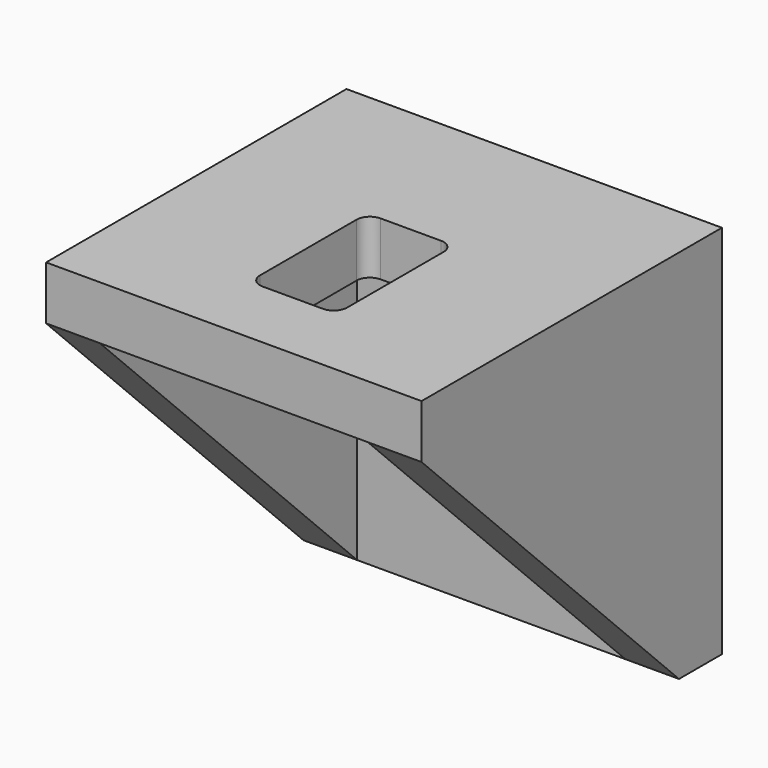
from build123d import *

# Parameters (mm, degrees)
F1_DEPTH = 28
F2_DEPTH = 4
F4_DEPTH = 4
F6_DEPTH = 4
F7_DEPTH = 4
F9_DEPTH = 4


with BuildPart() as f1:
    # F0 (on Front) → F1 (new body)
    with BuildSketch(Plane.XZ):
        Polygon((10, 24), (10, 0), (14, 0), (14, 28), (-14, 28), (-14, 0), (-10, 0), (-10, 24), align=None)
    extrude(amount=F1_DEPTH)

    # F0 (on Front) → F2 (join)
    with BuildSketch(Plane.XZ):
        Polygon((-10, 0), (0, 0), (10, 0), (10, 24), (-10, 24), align=None)
        with BuildLine():
            Line((2.25, 5.5), (0, 5.5))
            Line((0, 5.5), (-2.25, 5.5))
            ThreePointArc((-2.25, 5.5), (-2.957107, 5.792893), (-3.25, 6.5))
            Line((-3.25, 6.5), (-3.25, 15.5))
            ThreePointArc((-3.25, 15.5), (-2.957107, 16.207107), (-2.25, 16.5))
            Line((-2.25, 16.5), (0, 16.5))
            Line((0, 16.5), (2.25, 16.5))
            ThreePointArc((2.25, 16.5), (2.957107, 16.207107), (3.25, 15.5))
            Line((3.25, 15.5), (3.25, 6.5))
            ThreePointArc((3.25, 6.5), (2.957107, 5.792893), (2.25, 5.5))
        make_face(mode=Mode.SUBTRACT)
    extrude(amount=F2_DEPTH)

    # F3 (on face) → F4 (cut)
    with BuildSketch(Plane.YZ.offset(14)):
        Polygon((-4, 0), (-28, 24), (-28, 0), align=None)
    extrude(amount=-F4_DEPTH, mode=Mode.SUBTRACT)

    # F5 (on face) → F6 (cut)
    with BuildSketch(Plane(origin=(-14, 0, 0), x_dir=(0, -1, 0), z_dir=(-1, 0, 0))):
        Polygon((28, 24), (4, 0), (28, 0), align=None)
    extrude(amount=-F6_DEPTH, mode=Mode.SUBTRACT)

    # F0 (on Front) → F7 (cut)
    with BuildSketch(Plane.XZ):
        with BuildLine():
            Line((-2.25, 5.5), (0, 5.5))
            Line((0, 5.5), (2.25, 5.5))
            ThreePointArc((2.25, 5.5), (2.957107, 5.792893), (3.25, 6.5))
            Line((3.25, 6.5), (3.25, 15.5))
            ThreePointArc((3.25, 15.5), (2.957107, 16.207107), (2.25, 16.5))
            Line((2.25, 16.5), (0, 16.5))
            Line((0, 16.5), (-2.25, 16.5))
            ThreePointArc((-2.25, 16.5), (-2.957107, 16.207107), (-3.25, 15.5))
            Line((-3.25, 15.5), (-3.25, 6.5))
            ThreePointArc((-3.25, 6.5), (-2.957107, 5.792893), (-2.25, 5.5))
        make_face()
    extrude(amount=F7_DEPTH, mode=Mode.SUBTRACT)

    # F8 (on face) → F9 (cut)
    with BuildSketch(Plane.XY.offset(28)):
        with BuildLine():
            Line((-3.25, -12.5), (-3.25, -21.5))
            ThreePointArc((-3.25, -21.5), (-2.957107, -22.207107), (-2.25, -22.5))
            Line((-2.25, -22.5), (2.25, -22.5))
            ThreePointArc((2.25, -22.5), (2.957107, -22.207107), (3.25, -21.5))
            Line((3.25, -21.5), (3.25, -12.5))
            ThreePointArc((3.25, -12.5), (2.957107, -11.792893), (2.25, -11.5))
            Line((2.25, -11.5), (-2.25, -11.5))
            ThreePointArc((-2.25, -11.5), (-2.957107, -11.792893), (-3.25, -12.5))
        make_face()
    extrude(amount=-F9_DEPTH, mode=Mode.SUBTRACT)


solid = f1.part
